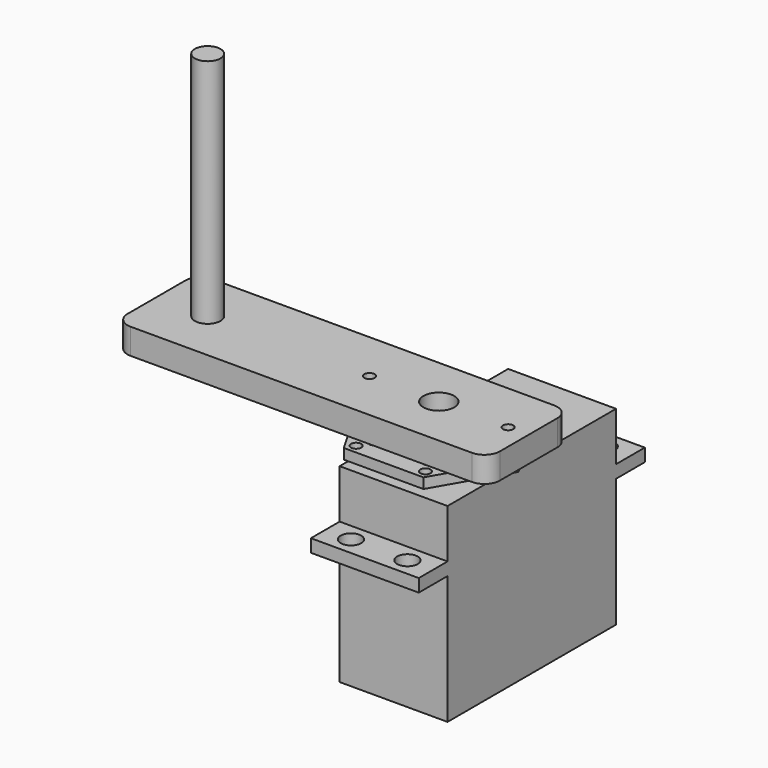
from build123d import *

# Parameters (mm, degrees)
F0_W          = 21
F0_H          = 41
F1_DEPTH      = 12
F1_DEPTH_BACK = 25
F2_W          = 21
F2_H          = 55
F2_R          = 2
F3_DEPTH      = 2.5
F4_R          = 3
F4_R_2        = 1
F5_DEPTH      = 3
F6_R          = 4
F6_R_2        = 3
F7_DEPTH      = 2
F8_R          = 1
F9_DEPTH      = 2
F10_R         = 2.5
F10_R_2       = 1
F10_R_3       = 3
F11_DEPTH     = 5
F12_R         = 2.5
F13_DEPTH     = 50


with BuildPart() as f1:
    # F0 (on Top) → F1 (new body, two sides)
    with BuildSketch(Plane.XY) as f1_sk:
        Rectangle(F0_W, F0_H)
    extrude(amount=F1_DEPTH)
    extrude(f1_sk.sketch, amount=-F1_DEPTH_BACK)

    # F2 (on Top) → F3 (join)
    with BuildSketch(Plane.XY):
        Rectangle(F2_W, F2_H)
        with Locations((-5.5, -24)):
            Circle(F2_R, mode=Mode.SUBTRACT)
        with Locations((5.5, -24)):
            Circle(F2_R, mode=Mode.SUBTRACT)
        with Locations((-5.5, 24)):
            Circle(F2_R, mode=Mode.SUBTRACT)
        with Locations((5.5, 24)):
            Circle(F2_R, mode=Mode.SUBTRACT)
    extrude(amount=F3_DEPTH)

    # F4 (on face) → F5 (join)
    with BuildSketch(Plane.XY.offset(12)):
        with Locations((0, -9.5)):
            Circle(F4_R)
        with Locations((0, -9.5)):
            Circle(F4_R_2, mode=Mode.SUBTRACT)
    extrude(amount=F5_DEPTH)


with BuildPart() as f7:
    # F6 (on face) → F7 (new body)
    with BuildSketch(Plane.XY.offset(15)):
        with Locations((0, -9.5)):
            Circle(F6_R)
        with Locations((0, -9.5)):
            Circle(F6_R_2, mode=Mode.SUBTRACT)
    extrude(amount=-F7_DEPTH)

    # F8 (on face) → F9 (join)
    with BuildSketch(Plane.XY.offset(15)):
        Polygon((15.5, -9.5), (7.75, 3.9233937587), (-7.75, 3.9233937587), (-15.5, -9.5), (-7.75, -22.9233937587), (7.75, -22.9233937587), align=None)
        with Locations((-6.75, -21.1913429511)):
            Circle(F8_R, mode=Mode.SUBTRACT)
        with Locations((-5.25, -18.5932667397)):
            Circle(F8_R, mode=Mode.SUBTRACT)
        with Locations((-3.75, -15.9951905284)):
            Circle(F8_R, mode=Mode.SUBTRACT)
        with Locations((6.75, -21.1913429511)):
            Circle(F8_R, mode=Mode.SUBTRACT)
        with Locations((5.25, -18.5932667397)):
            Circle(F8_R, mode=Mode.SUBTRACT)
        with Locations((3.75, -15.9951905284)):
            Circle(F8_R, mode=Mode.SUBTRACT)
        with Locations((-13.5, -9.5)):
            Circle(F8_R, mode=Mode.SUBTRACT)
        with Locations((-10.5, -9.5)):
            Circle(F8_R, mode=Mode.SUBTRACT)
        with Locations((-7.5, -9.5)):
            Circle(F8_R, mode=Mode.SUBTRACT)
        with Locations((-3.75, -3.0048094716)):
            Circle(F8_R, mode=Mode.SUBTRACT)
        with Locations((-5.25, -0.4067332603)):
            Circle(F8_R, mode=Mode.SUBTRACT)
        with Locations((-6.75, 2.1913429511)):
            Circle(F8_R, mode=Mode.SUBTRACT)
        with Locations((7.5, -9.5)):
            Circle(F8_R, mode=Mode.SUBTRACT)
        with Locations((3.75, -3.0048094716)):
            Circle(F8_R, mode=Mode.SUBTRACT)
        with Locations((10.5, -9.5)):
            Circle(F8_R, mode=Mode.SUBTRACT)
        with Locations((13.5, -9.5)):
            Circle(F8_R, mode=Mode.SUBTRACT)
        with Locations((5.25, -0.4067332603)):
            Circle(F8_R, mode=Mode.SUBTRACT)
        with Locations((6.75, 2.1913429511)):
            Circle(F8_R, mode=Mode.SUBTRACT)
    extrude(amount=F9_DEPTH)


with BuildPart() as f11:
    # F10 (on face) → F11 (new body)
    with BuildSketch(Plane.XY.offset(17)):
        with BuildLine():
            ThreePointArc((17.4723014201, -2.5), (16.5936217637, -0.3786796564), (14.4723014201, 0.5))
            Line((14.4723014201, 0.5), (-52, 0.5))
            ThreePointArc((-52, 0.5), (-54.1213203436, -0.3786796564), (-55, -2.5))
            Line((-55, -2.5), (-55, -16.5))
            ThreePointArc((-55, -16.5), (-54.1213203436, -18.6213203436), (-52, -19.5))
            Line((-52, -19.5), (14.4723014201, -19.5))
            ThreePointArc((14.4723014201, -19.5), (16.5936217637, -18.6213203436), (17.4723014201, -16.5))
            Line((17.4723014201, -16.5), (17.4723014201, -2.5))
        make_face()
        with Locations((-45, -9.5)):
            Circle(F10_R, mode=Mode.SUBTRACT)
        with Locations((-13.5, -9.5)):
            Circle(F10_R_2, mode=Mode.SUBTRACT)
        with Locations((0, -9.5)):
            Circle(F10_R_3, mode=Mode.SUBTRACT)
        with Locations((13.5, -9.5)):
            Circle(F10_R_2, mode=Mode.SUBTRACT)
    extrude(amount=F11_DEPTH)


with BuildPart() as f13:
    # F12 (on face) → F13 (new body)
    with BuildSketch(Plane(origin=(0, 0, 17), x_dir=(1, 0, 0), z_dir=(0, 0, -1))):
        with Locations((-45, 9.5)):
            Circle(F12_R)
    extrude(amount=-F13_DEPTH)


solid = Compound([f1.part, f7.part, f11.part, f13.part])
